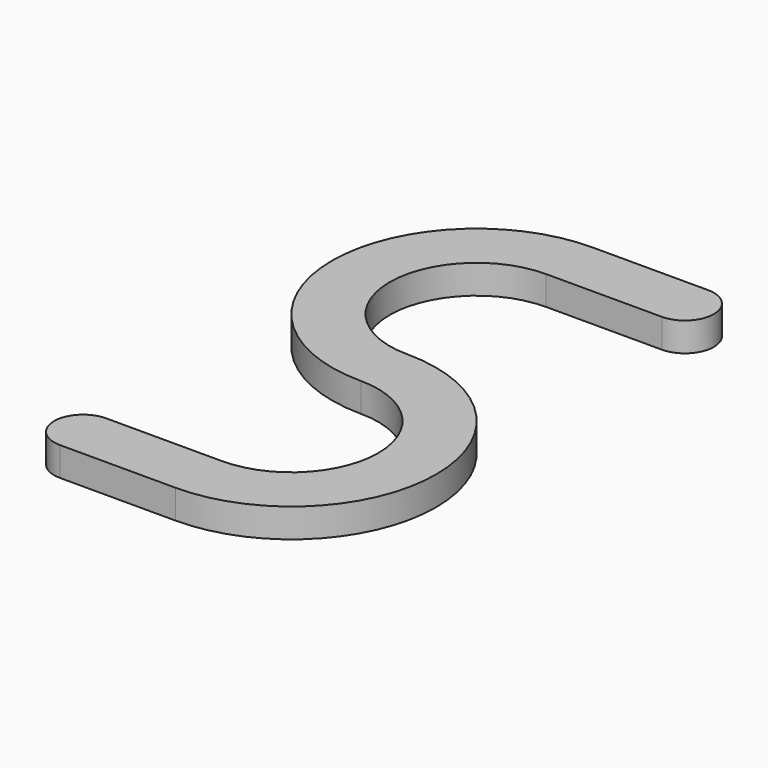
from build123d import *

# Parameters (mm, degrees)
F1_DEPTH = 10


with BuildPart() as f1:
    # F0 (on Top) → F1 (new body)
    with BuildSketch(Plane.XY):
        with BuildLine():
            Line((40, 90), (0, 90))
            ThreePointArc((0, 90), (-50, 40), (0, -10))
            ThreePointArc((0, -10), (30, -40), (0, -70))
            Line((0, -70), (-40, -70))
            ThreePointArc((-40, -70), (-50, -80), (-40, -90))
            Line((-40, -90), (0, -90))
            ThreePointArc((0, -90), (50, -40), (0, 10))
            ThreePointArc((0, 10), (-30, 40), (0, 70))
            Line((0, 70), (40, 70))
            ThreePointArc((40, 70), (50, 80), (40, 90))
        make_face()
    extrude(amount=F1_DEPTH)


solid = f1.part
